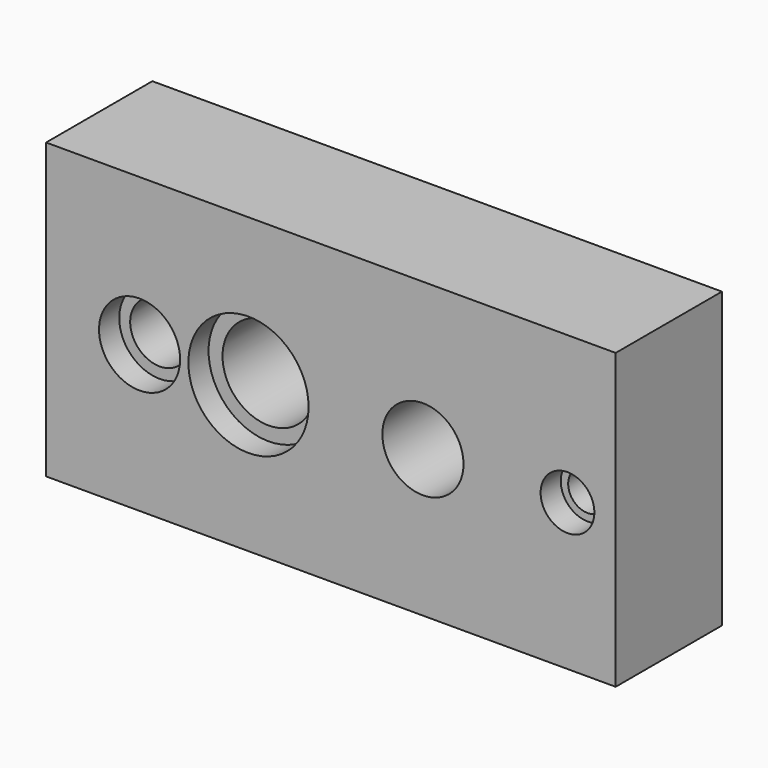
from build123d import *

# Parameters (mm, degrees)
F0_W     = 108.953711
F0_H     = 56.228228
F0_R     = 7.753869
F0_R_2   = 11.498186
F0_R_3   = 7.762631
F0_R_4   = 5.142141
F1_DEPTH = 25.4
F0_R_5   = 5.655218
F0_R_6   = 3.72834
F0_R_7   = 8.827883
F2_DEPTH = 20.574


with BuildPart() as f1:
    # F0 (on Front) → F1 (new body)
    with BuildSketch(Plane.XZ):
        with Locations((0.460887, 5.254112)):
            Rectangle(F0_W, F0_H)
        with Locations((-36.13355, 5.161935)):
            Circle(F0_R, mode=Mode.SUBTRACT)
        with Locations((-15.301452, 5.161935)):
            Circle(F0_R_2, mode=Mode.SUBTRACT)
        with Locations((18.066773, 5.161935)):
            Circle(F0_R_3, mode=Mode.SUBTRACT)
        with Locations((45.720004, 5.161935)):
            Circle(F0_R_4, mode=Mode.SUBTRACT)
    extrude(amount=F1_DEPTH)

    # F0 (on Front) → F2 (join)
    with BuildSketch(Plane.XZ):
        with Locations((-36.13355, 5.161935)):
            Circle(F0_R)
        with Locations((-36.13355, 5.161935)):
            Circle(F0_R_5, mode=Mode.SUBTRACT)
        with Locations((45.720004, 5.161935)):
            Circle(F0_R_4)
        with Locations((45.720004, 5.161935)):
            Circle(F0_R_6, mode=Mode.SUBTRACT)
        with Locations((-15.301452, 5.161935)):
            Circle(F0_R_2)
        with Locations((-15.301452, 5.161935)):
            Circle(F0_R_7, mode=Mode.SUBTRACT)
    extrude(amount=F2_DEPTH)


solid = f1.part
